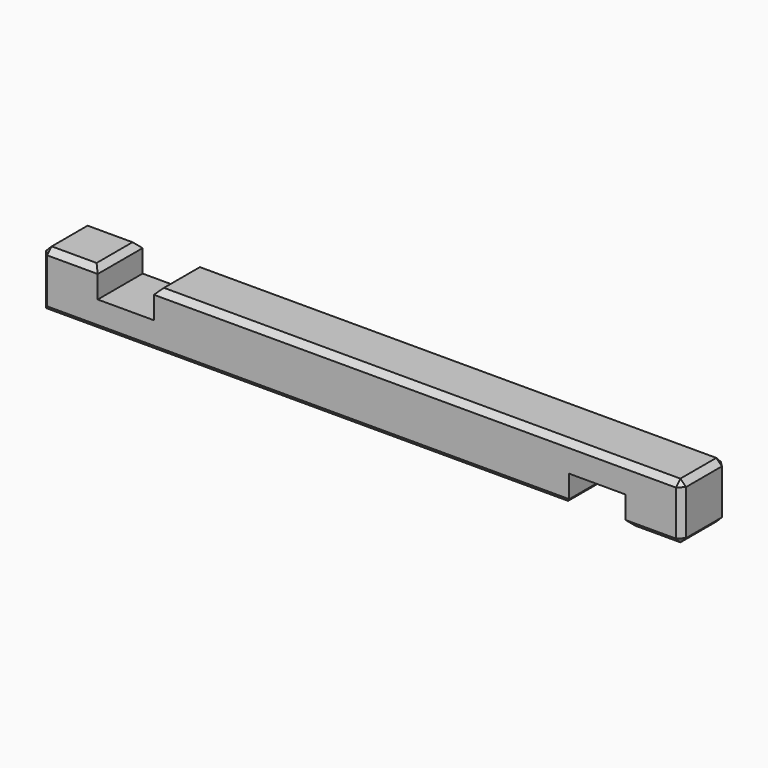
from build123d import *

# Parameters (mm, degrees)
F1_DEPTH = 10
F2_SIZE  = 1


with BuildPart() as f1:
    # F0 (on Front) → F1 (new body)
    with BuildSketch(Plane.XZ):
        Polygon((-47.434363, 10), (-57.434363, 10), (-57.434363, 0), (36.565637, 0), (36.565637, 5), (46.565637, 5), (46.565637, 0), (56.565637, 0), (56.565637, 10), (-37.434363, 10), (-37.434363, 5), (-47.434363, 5), align=None)
    extrude(amount=F1_DEPTH)

    # F2
    f2_edges = [f1.edges().sort_by_distance(p)[0] for p in [
        (-52.434363, 0, 10),
        (-57.434363, -5, 10),
        (-52.434363, -10, 10),
        (9.565637, 0, 10),
        (9.565637, -10, 10),
        (56.565637, -5, 10),
        (-57.434363, -10, 5),
        (-10.434363, -10, 0),
        (51.565637, -10, 0),
        (56.565637, -10, 5),
        (56.565637, -5, 0),
        (56.565637, 0, 5),
        (51.565637, 0, 0),
        (-10.434363, 0, 0),
        (-57.434363, 0, 5),
        (-47.434363, -5, 10),
        (-37.434363, -5, 10),
        (36.565637, -5, 0),
        (46.565637, -5, 0),
    ]]
    chamfer(f2_edges, length=F2_SIZE)


solid = f1.part
